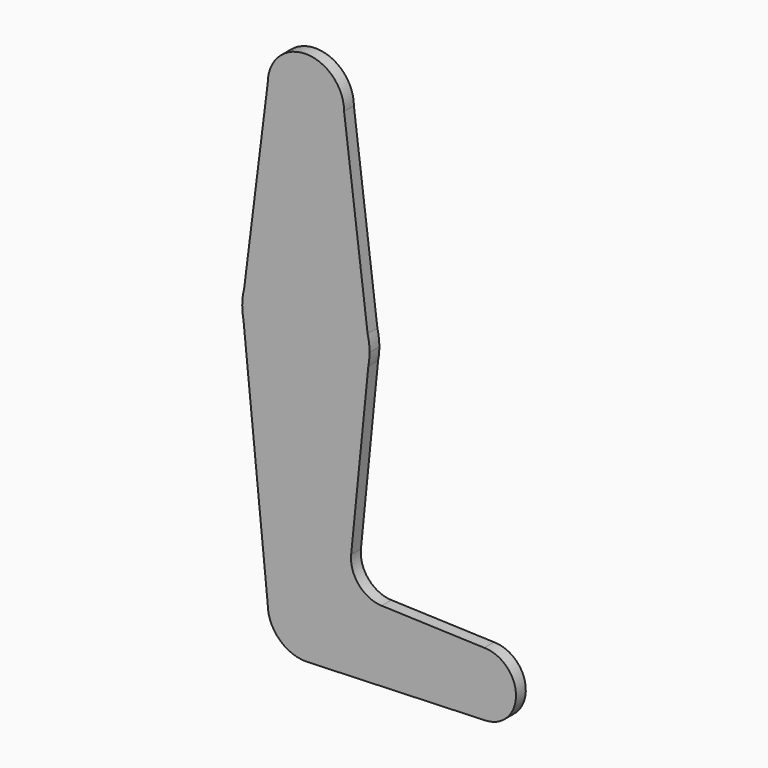
from build123d import *

# Parameters (mm, degrees)
F0_R     = 5.1761768631
F0_R_2   = 3.887109087
F0_R_3   = 4.2488265515
F0_R_4   = 3.2271311179
F0_R_5   = 3.175
F1_DEPTH = 3.048


with BuildPart() as f1:
    # F0 (on Front) → F1 (new body)
    with BuildSketch(Plane.XZ):
        with BuildLine():
            Line((15.875, 63.5), (15.3865384615, 67.4076923077))
            ThreePointArc((15.3865384615, 67.4076923077), (0, 79.375), (-15.3865384615, 67.4076923077))
            Line((-15.3865384615, 67.4076923077), (-15.875, 63.5))
            Line((-15.875, 63.5), (-15.5606435644, 60.3564356436))
            ThreePointArc((-15.5606435644, 60.3564356436), (0, 47.625), (15.5606435644, 60.3564356436))
            Line((15.5606435644, 60.3564356436), (15.875, 63.5))
        make_face()
        with Locations((0, 63.5)):
            Circle(F0_R, mode=Mode.SUBTRACT)
        with BuildLine():
            Line((11.2835831424, 17.5858314242), (15.5606435644, 60.3564356436))
            ThreePointArc((15.5606435644, 60.3564356436), (0, 47.625), (-15.5606435644, 60.3564356436))
            Line((-15.5606435644, 60.3564356436), (-9.525, 0))
            ThreePointArc((-9.525, 0), (0, 9.525), (9.525, 0))
            ThreePointArc((9.525, 0), (6.9705567315, -6.4912990883), (0.6773435479, -9.500885786))
            Line((0.6773435479, -9.500885786), (44.7324052746, -7.9324746146))
            ThreePointArc((44.7324052746, -7.9324746146), (36.5137564458, -0.1412249921), (44.45, 7.9375))
            Line((44.45, 7.9375), (18.9105730062, 8.8496223926))
            ThreePointArc((18.9105730062, 8.8496223926), (13.2053552395, 11.5661923774), (11.2835831424, 17.5858314242))
        make_face()
        with BuildLine():
            ThreePointArc((9.525, 0), (0, 9.525), (-9.525, 0))
            ThreePointArc((-9.525, 0), (-6.7351920908, -6.7351920908), (0, -9.525))
            Line((0, -9.525), (0.6773435479, -9.500885786))
            ThreePointArc((0.6773435479, -9.500885786), (6.9705567315, -6.4912990883), (9.525, 0))
        make_face()
        Circle(F0_R_2, mode=Mode.SUBTRACT)
        with Locations((0, 63.5)):
            Circle(F0_R)
        with BuildLine():
            ThreePointArc((-9.525, 114.3), (0, 104.775), (9.525, 114.3))
            ThreePointArc((9.525, 114.3), (0, 123.825), (-9.525, 114.3))
        make_face()
        with Locations((0, 114.3)):
            Circle(F0_R_3, mode=Mode.SUBTRACT)
        with BuildLine():
            ThreePointArc((52.3875, 0), (50.0626600757, 5.6126600757), (44.45, 7.9375))
            ThreePointArc((44.45, 7.9375), (36.5137564458, -0.1412249921), (44.7324052746, -7.9324746146))
            ThreePointArc((44.7324052746, -7.9324746146), (50.1616327839, -5.5119104847), (52.3875, 0))
        make_face()
        with Locations((44.45, 0)):
            Circle(F0_R_4, mode=Mode.SUBTRACT)
        with BuildLine():
            Line((15.3865384615, 67.4076923077), (9.525, 114.3))
            ThreePointArc((9.525, 114.3), (0, 104.775), (-9.525, 114.3))
            Line((-9.525, 114.3), (-15.3865384615, 67.4076923077))
            ThreePointArc((-15.3865384615, 67.4076923077), (0, 79.375), (15.3865384615, 67.4076923077))
        make_face()
        with Locations((-3.6004504655, 95.6214740872)):
            Circle(F0_R_5, mode=Mode.SUBTRACT)
        with BuildLine():
            ThreePointArc((15.5606435644, 60.3564356436), (15.7962153946, 61.9203784605), (15.875, 63.5))
            Line((15.875, 63.5), (15.5606435644, 60.3564356436))
        make_face()
        with BuildLine():
            Line((-15.5606435644, 60.3564356436), (-15.875, 63.5))
            ThreePointArc((-15.875, 63.5), (-15.7962153946, 61.9203784605), (-15.5606435644, 60.3564356436))
        make_face()
        with BuildLine():
            Line((0.6773435479, -9.500885786), (0, -9.525))
            ThreePointArc((0, -9.525), (0.3388863295, -9.5189695375), (0.6773435479, -9.500885786))
        make_face()
        with Locations((0, 114.3)):
            Circle(F0_R_3)
        Circle(F0_R_2)
        with Locations((44.45, 0)):
            Circle(F0_R_4)
        with Locations((-3.6004504655, 95.6214740872)):
            Circle(F0_R_5)
        with BuildLine():
            Line((-15.875, 63.5), (-15.3865384615, 67.4076923077))
            ThreePointArc((-15.3865384615, 67.4076923077), (-15.7524112928, 65.4690514116), (-15.875, 63.5))
        make_face()
        with BuildLine():
            ThreePointArc((15.875, 63.5), (15.7524112928, 65.4690514116), (15.3865384615, 67.4076923077))
            Line((15.3865384615, 67.4076923077), (15.875, 63.5))
        make_face()
    extrude(amount=F1_DEPTH)


solid = f1.part
